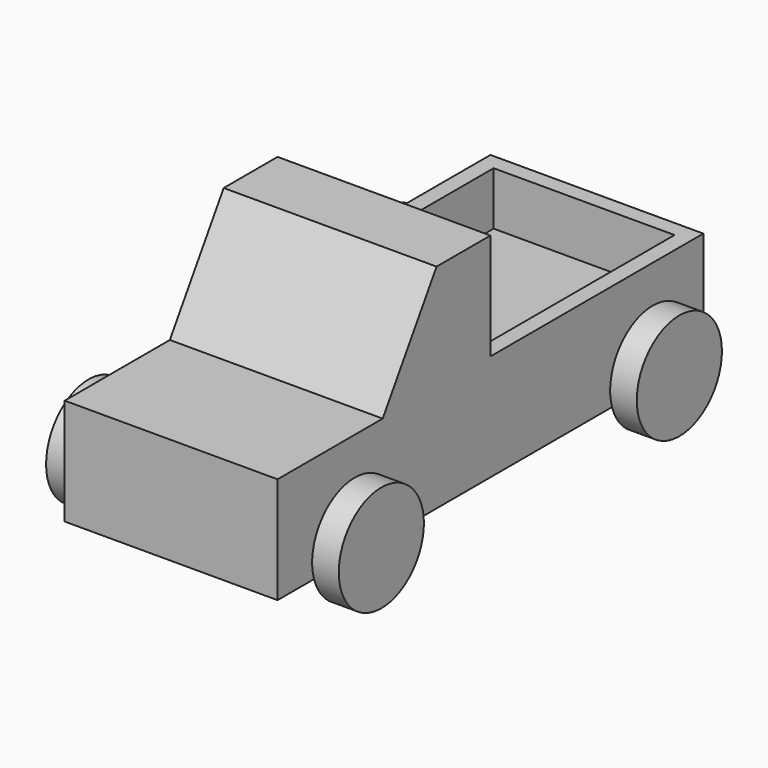
from build123d import *

# Parameters (mm, degrees)
F0_W       = 100
F0_H       = 20
F1_DEPTH   = 20
F4_W       = 40
F4_H       = 25.30775
F5_DEPTH   = 20
F9_DEPTH   = 40
F10_R      = 2.5
F11_DEPTH  = 40.001
F12_R      = 2.5
F13_DEPTH  = 40.001
F14_W      = 34
F14_H      = 44
F15_DEPTH  = 10
F16_R      = 1.25
F17_DEPTH  = 42.5
F17_FACE_R = 1.25
F18_DEPTH  = 2.5
F19_R      = 1.25
F20_DEPTH  = 42.5
F20_FACE_R = 1.25
F21_DEPTH  = 2.5
F22_R      = 10
F23_DEPTH  = 5
F24_R      = 10
F25_DEPTH  = 5
F26_R      = 10
F27_DEPTH  = 5
F28_R      = 10
F29_DEPTH  = 5


with BuildPart() as f1:
    # F0 (on Right) → F1 (new body, symmetric)
    with BuildSketch(Plane.YZ):
        Rectangle(F0_W, F0_H)
    extrude(amount=F1_DEPTH, both=True)

    # F4 (on face) → F5 (join)
    with BuildSketch(Plane.XY.offset(10)):
        with Locations((0, -12.653875)):
            Rectangle(F4_W, F4_H)
    extrude(amount=F5_DEPTH)

    # F7 (on face) → F9 (cut)
    with BuildSketch(Plane.YZ.offset(20)):
        Polygon((-25.30775, 30), (-25.30775, 10), (-12.653875, 30), align=None)
    extrude(amount=-F9_DEPTH, mode=Mode.SUBTRACT)

    # F10 (on face) → F11 (cut, through all)
    with BuildSketch(Plane.YZ.offset(20)):
        with Locations((-35, -5)):
            Circle(F10_R)
    extrude(amount=-F11_DEPTH, mode=Mode.SUBTRACT)

    # F12 (on face) → F13 (cut, through all)
    with BuildSketch(Plane.YZ.offset(20)):
        with Locations((35, -5)):
            Circle(F12_R)
    extrude(amount=-F13_DEPTH, mode=Mode.SUBTRACT)

    # F14 (on face) → F15 (cut)
    with BuildSketch(Plane.XY.offset(10)):
        with Locations((0, 25)):
            Rectangle(F14_W, F14_H)
    extrude(amount=-F15_DEPTH, mode=Mode.SUBTRACT)


with BuildPart() as f17:
    # F16 (on face) → F17 (new body)
    with BuildSketch(Plane.YZ.offset(20)):
        with Locations((-35, -5)):
            Circle(F16_R)
    extrude(amount=-F17_DEPTH)

    # F17_face (on face) → F18 (join)
    with BuildSketch(Plane(origin=(20, -35, -5), x_dir=(0, 1, 0), z_dir=(1, 0, 0))):
        Circle(F17_FACE_R)
    extrude(amount=F18_DEPTH)

    # F22 (on face) → F23 (join)
    with BuildSketch(Plane.YZ.offset(22.5)):
        with Locations((-35, -5)):
            Circle(F22_R)
    extrude(amount=F23_DEPTH)

    # F24 (on face) → F25 (join)
    with BuildSketch(Plane(origin=(-22.5, 0, 0), x_dir=(0, -1, 0), z_dir=(-1, 0, 0))):
        with Locations((35, -5)):
            Circle(F24_R)
    extrude(amount=F25_DEPTH)


with BuildPart() as f20:
    # F19 (on face) → F20 (new body)
    with BuildSketch(Plane.YZ.offset(20)):
        with Locations((35, -5)):
            Circle(F19_R)
    extrude(amount=-F20_DEPTH)

    # F20_face (on face) → F21 (join)
    with BuildSketch(Plane(origin=(20, 35, -5), x_dir=(0, 1, 0), z_dir=(1, 0, 0))):
        Circle(F20_FACE_R)
    extrude(amount=F21_DEPTH)

    # F26 (on face) → F27 (join)
    with BuildSketch(Plane(origin=(-22.5, 0, 0), x_dir=(0, -1, 0), z_dir=(-1, 0, 0))):
        with Locations((-35, -5)):
            Circle(F26_R)
    extrude(amount=F27_DEPTH)

    # F28 (on face) → F29 (join)
    with BuildSketch(Plane.YZ.offset(22.5)):
        with Locations((35, -5)):
            Circle(F28_R)
    extrude(amount=F29_DEPTH)


solid = Compound([f1.part, f17.part, f20.part])
